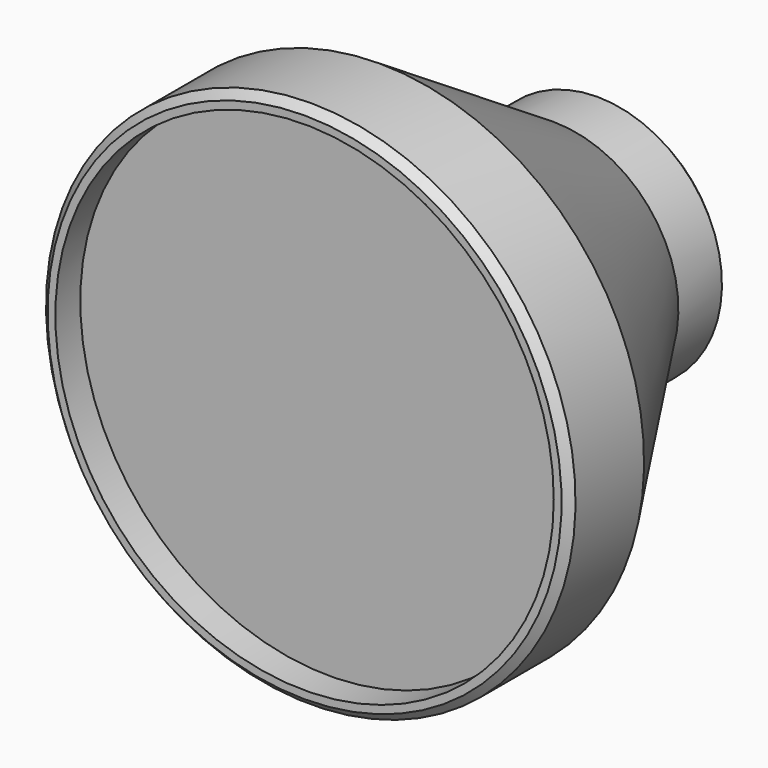
from build123d import *

# Parameters (mm, degrees)
F2_R     = 25.4
F3_DEPTH = 3.175
F4_SIZE  = 0.79375


with BuildPart() as f1:
    # F0 (on Right) → F1 (revolve)
    with BuildSketch(Plane.YZ):
        Polygon((0, 26.9875), (0, 0), (38.1, 0), (38.1, 12.7), (31.75, 12.7), (9.525, 26.9875), align=None)
    revolve(axis=Axis((0, 19.05, 0), (0, -1, 0)))

    # F2 (on face) → F3 (cut)
    with BuildSketch(Plane.XZ):
        Circle(F2_R)
    extrude(amount=-F3_DEPTH, mode=Mode.SUBTRACT)

    # F4
    f4_edges = [f1.edges().sort_by_distance(p)[0] for p in [
        (0, 0, -26.9875),
        (0, 38.1, -12.7),
    ]]
    chamfer(f4_edges, length=F4_SIZE)


solid = f1.part
